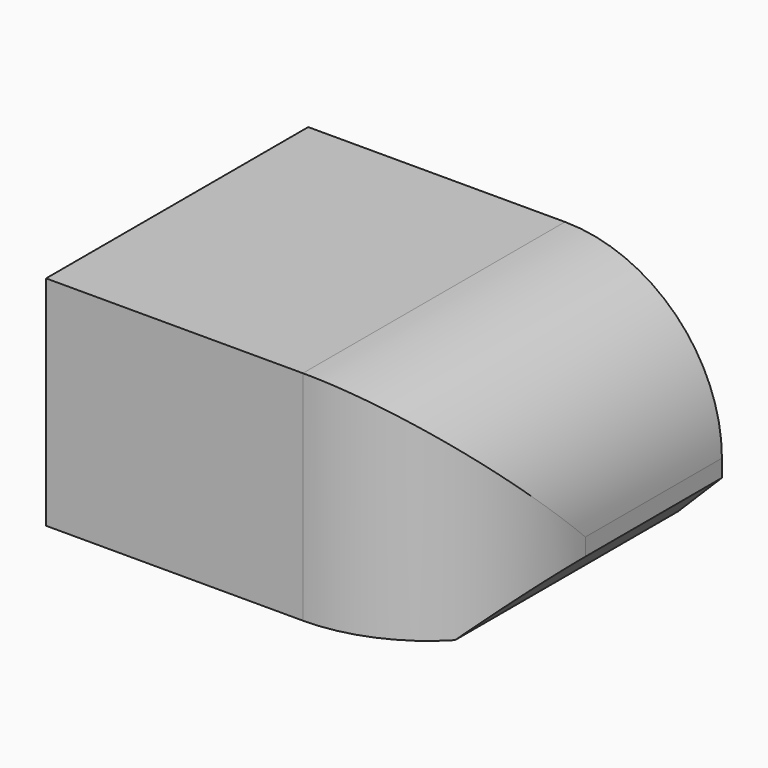
from build123d import *

# Parameters (mm, degrees)
F0_W     = 47.483348
F0_H     = 37.607089
F2_DEPTH = 25
F3_SIZE  = 5
F4_R     = 18.013222


with BuildPart() as f2:
    # F0 (on Top) → F2 (new body)
    with BuildSketch(Plane.XY):
        with Locations((4.038073, -18.803544)):
            Rectangle(F0_W, F0_H)
    extrude(amount=-F2_DEPTH)

    # F3
    f3_edges = [f2.edges().sort_by_distance(p)[0] for p in [
        (27.779747, -18.803544, -25),
    ]]
    chamfer(f3_edges, length=F3_SIZE)

    # F4
    f4_edges = [f2.edges().sort_by_distance(p)[0] for p in [
        (27.779747, -18.803544, 0),
        (27.779747, -37.607089, -10),
    ]]
    fillet(f4_edges, radius=F4_R)


solid = f2.part
